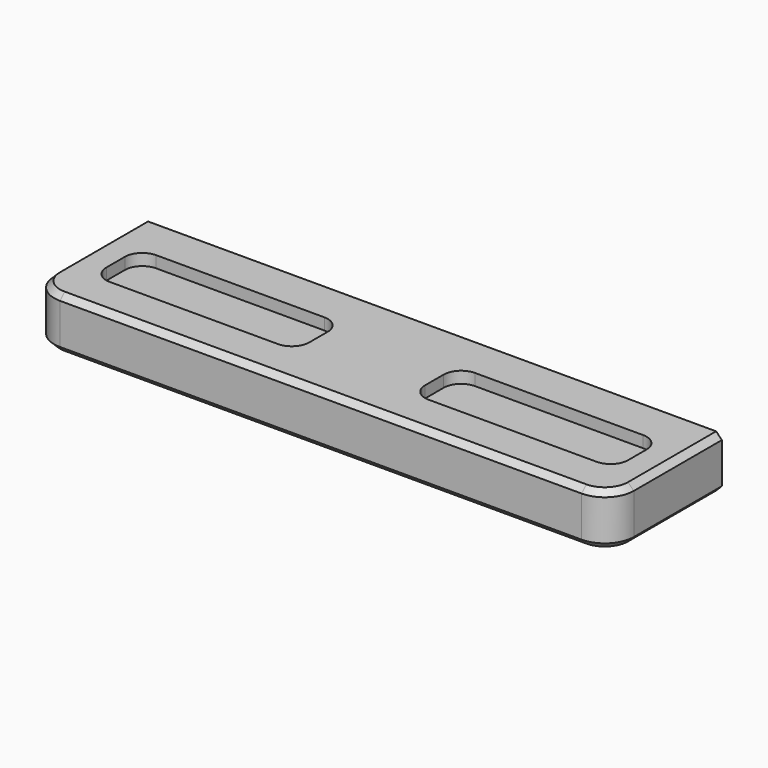
from build123d import *

# Parameters (mm, degrees)
F0_W     = 100
F0_H     = 24
F1_DEPTH = 9
F2_R     = 5
F3_W     = 35
F3_H     = 10
F4_W     = 35
F4_H     = 10
F5_DEPTH = 2
F6_R     = 3
F7_W     = 35
F7_H     = 10
F8_DEPTH = 2
F9_R     = 3
F10_SIZE = 1


with BuildPart() as f1:
    # F0 (on Top) → F1 (new body)
    with BuildSketch(Plane.XY):
        with Locations((0, 12)):
            Rectangle(F0_W, F0_H)
    extrude(amount=F1_DEPTH)

    # F2
    f2_edges = [f1.edges().sort_by_distance(p)[0] for p in [
        (-50, 0, 4.5),
        (50, 0, 4.5),
    ]]
    fillet(f2_edges, radius=F2_R)

    # F3 (on face) + F4 (on face) → F5 (cut)
    with BuildSketch(Plane.XY.offset(9)):
        with Locations((-27.5, 12)):
            Rectangle(F3_W, F3_H)
    with BuildSketch(Plane.XY.offset(9)):
        with Locations((27.5, 12)):
            Rectangle(F4_W, F4_H)
    extrude(amount=-F5_DEPTH, mode=Mode.SUBTRACT)

    # F6
    f6_edges = [f1.edges().sort_by_distance(p)[0] for p in [
        (-45, 7, 8),
        (-45, 17, 8),
        (-10, 17, 8),
        (10, 7, 8),
        (-10, 7, 8),
        (45, 7, 8),
        (45, 17, 8),
        (10, 17, 8),
    ]]
    fillet(f6_edges, radius=F6_R)

    # F7 (on face) → F8 (cut)
    with BuildSketch(Plane(origin=(0, 0, 0), x_dir=(1, 0, 0), z_dir=(0, 0, -1))):
        with Locations((-27.5, -12)):
            Rectangle(F7_W, F7_H)
        with Locations((27.5, -12)):
            Rectangle(F7_W, F7_H)
    extrude(amount=-F8_DEPTH, mode=Mode.SUBTRACT)

    # F9
    f9_edges = [f1.edges().sort_by_distance(p)[0] for p in [
        (45, 17, 1),
        (-10, 17, 1),
        (10, 17, 1),
        (-45, 17, 1),
        (10, 7, 1),
        (-45, 7, 1),
        (-10, 7, 1),
        (45, 7, 1),
    ]]
    fillet(f9_edges, radius=F9_R)

    # F10
    f10_edges = [f1.edges().sort_by_distance(p)[0] for p in [
        (0, 0, 9),
        (0, 0, 0),
    ]]
    chamfer(f10_edges, length=F10_SIZE)


solid = f1.part
